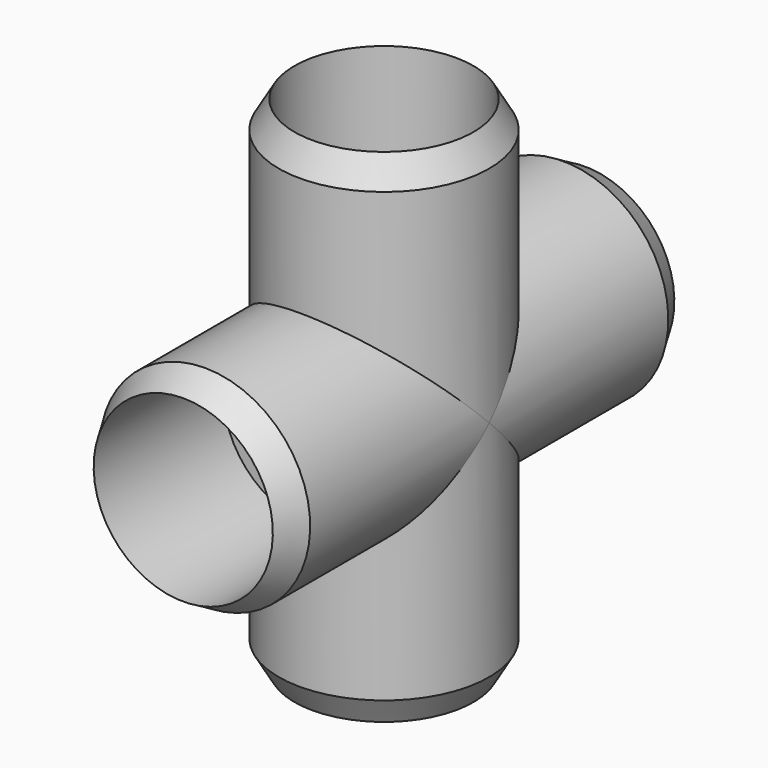
from build123d import *


with BuildPart() as f4:
    # F0 (on Right) → F4 (revolve)
    with BuildSketch(Plane.YZ):
        with BuildLine():
            Line((-52.6758568757, 24.765), (-59.055, 21.082))
            Line((-59.055, 21.082), (-20.955, 21.082))
            Line((-20.955, 21.082), (-20.955, 15.875))
            Line((-20.955, 15.875), (0, 15.875))
            ThreePointArc((0, 15.875), (11.2253201513, 11.2253201513), (15.875, 0))
            Line((15.875, 0), (24.765, 0))
            ThreePointArc((24.765, 0), (17.5114994361, 17.5114994361), (0, 24.765))
            Line((0, 24.765), (-52.6758568757, 24.765))
        make_face()
        with BuildLine():
            Line((-20.955, 21.082), (-59.055, 21.082))
            Line((-59.055, 21.082), (-59.055, 0))
            Line((-59.055, 0), (0, 0))
            Line((0, 0), (10.5189766587, 0))
            Line((10.5189766587, 0), (15.875, 0))
            ThreePointArc((15.875, 0), (11.2253201513, 11.2253201513), (0, 15.875))
            Line((0, 15.875), (-20.955, 15.875))
            Line((-20.955, 15.875), (-20.955, 21.082))
        make_face()
    revolve(axis=Axis((0, -21.59, 0), (0, 1, 0)))

    # F1 (on Right) → F5 (revolve)
    with BuildSketch(Plane.YZ):
        with BuildLine():
            Line((-24.765, -52.6758568757), (-21.082, -59.055))
            Line((-21.082, -59.055), (-21.082, -20.955))
            Line((-21.082, -20.955), (-15.875, -20.955))
            Line((-15.875, -20.955), (-15.875, 0))
            ThreePointArc((-15.875, 0), (-11.2253201513, 11.2253201513), (0, 15.875))
            Line((0, 15.875), (0, 24.765))
            ThreePointArc((0, 24.765), (-17.5114994361, 17.5114994361), (-24.765, 0))
            Line((-24.765, 0), (-24.765, -52.6758568757))
        make_face()
        with BuildLine():
            Line((-21.082, -20.955), (-21.082, -59.055))
            Line((-21.082, -59.055), (0, -59.055))
            Line((0, -59.055), (0, 0))
            Line((0, 0), (0, 15.875))
            ThreePointArc((0, 15.875), (-11.2253201513, 11.2253201513), (-15.875, 0))
            Line((-15.875, 0), (-15.875, -20.955))
            Line((-15.875, -20.955), (-21.082, -20.955))
        make_face()
    revolve(axis=Axis((0, 0, -21.59), (0, 0, 1)))

    # F2 (on Right) → F6 (revolve)
    with BuildSketch(Plane.YZ):
        with BuildLine():
            Line((52.6758568757, -24.765), (59.055, -21.082))
            Line((59.055, -21.082), (20.955, -21.082))
            Line((20.955, -21.082), (20.955, -15.875))
            Line((20.955, -15.875), (0, -15.875))
            ThreePointArc((0, -15.875), (-11.2253201513, -11.2253201513), (-15.875, 0))
            Line((-15.875, 0), (-24.765, 0))
            ThreePointArc((-24.765, 0), (-17.5114994361, -17.5114994361), (0, -24.765))
            Line((0, -24.765), (52.6758568757, -24.765))
        make_face()
        with BuildLine():
            Line((20.955, -21.082), (59.055, -21.082))
            Line((59.055, -21.082), (59.055, 0))
            Line((59.055, 0), (10.5189766587, 0))
            Line((10.5189766587, 0), (0, 0))
            Line((0, 0), (-15.875, 0))
            ThreePointArc((-15.875, 0), (-11.2253201513, -11.2253201513), (0, -15.875))
            Line((0, -15.875), (20.955, -15.875))
            Line((20.955, -15.875), (20.955, -21.082))
        make_face()
    revolve(axis=Axis((0, 21.59, 0), (0, -1, 0)))

    # F3 (on Right) → F7 (revolve)
    with BuildSketch(Plane.YZ):
        with BuildLine():
            Line((24.765, 52.6758568757), (21.082, 59.055))
            Line((21.082, 59.055), (21.082, 20.955))
            Line((21.082, 20.955), (15.875, 20.955))
            Line((15.875, 20.955), (15.875, 0))
            ThreePointArc((15.875, 0), (11.2253201513, -11.2253201513), (0, -15.875))
            Line((0, -15.875), (0, -24.765))
            ThreePointArc((0, -24.765), (17.5114994361, -17.5114994361), (24.765, 0))
            Line((24.765, 0), (24.765, 52.6758568757))
        make_face()
        with BuildLine():
            Line((21.082, 20.955), (21.082, 59.055))
            Line((21.082, 59.055), (0, 59.055))
            Line((0, 59.055), (0, 9.2996467855))
            Line((0, 9.2996467855), (0, 0))
            Line((0, 0), (0, -15.875))
            ThreePointArc((0, -15.875), (11.2253201513, -11.2253201513), (15.875, 0))
            Line((15.875, 0), (15.875, 20.955))
            Line((15.875, 20.955), (21.082, 20.955))
        make_face()
    revolve(axis=Axis((0, 0, 21.59), (0, 0, -1)))

    # F0 (on Right) → F8 (revolve, cut)
    with BuildSketch(Plane.YZ):
        with BuildLine():
            Line((-20.955, 21.082), (-59.055, 21.082))
            Line((-59.055, 21.082), (-59.055, 0))
            Line((-59.055, 0), (0, 0))
            Line((0, 0), (10.5189766587, 0))
            Line((10.5189766587, 0), (15.875, 0))
            ThreePointArc((15.875, 0), (11.2253201513, 11.2253201513), (0, 15.875))
            Line((0, 15.875), (-20.955, 15.875))
            Line((-20.955, 15.875), (-20.955, 21.082))
        make_face()
    revolve(axis=Axis((0, -21.59, 0), (0, 1, 0)), mode=Mode.SUBTRACT)

    # F1 (on Right) → F9 (revolve, cut)
    with BuildSketch(Plane.YZ):
        with BuildLine():
            Line((-21.082, -20.955), (-21.082, -59.055))
            Line((-21.082, -59.055), (0, -59.055))
            Line((0, -59.055), (0, 0))
            Line((0, 0), (0, 15.875))
            ThreePointArc((0, 15.875), (-11.2253201513, 11.2253201513), (-15.875, 0))
            Line((-15.875, 0), (-15.875, -20.955))
            Line((-15.875, -20.955), (-21.082, -20.955))
        make_face()
    revolve(axis=Axis((0, 0, -21.59), (0, 0, 1)), mode=Mode.SUBTRACT)

    # F2 (on Right) → F10 (revolve, cut)
    with BuildSketch(Plane.YZ):
        with BuildLine():
            Line((20.955, -21.082), (59.055, -21.082))
            Line((59.055, -21.082), (59.055, 0))
            Line((59.055, 0), (10.5189766587, 0))
            Line((10.5189766587, 0), (0, 0))
            Line((0, 0), (-15.875, 0))
            ThreePointArc((-15.875, 0), (-11.2253201513, -11.2253201513), (0, -15.875))
            Line((0, -15.875), (20.955, -15.875))
            Line((20.955, -15.875), (20.955, -21.082))
        make_face()
    revolve(axis=Axis((0, 21.59, 0), (0, -1, 0)), mode=Mode.SUBTRACT)

    # F3 (on Right) → F11 (revolve, cut)
    with BuildSketch(Plane.YZ):
        with BuildLine():
            Line((21.082, 20.955), (21.082, 59.055))
            Line((21.082, 59.055), (0, 59.055))
            Line((0, 59.055), (0, 9.2996467855))
            Line((0, 9.2996467855), (0, 0))
            Line((0, 0), (0, -15.875))
            ThreePointArc((0, -15.875), (11.2253201513, -11.2253201513), (15.875, 0))
            Line((15.875, 0), (15.875, 20.955))
            Line((15.875, 20.955), (21.082, 20.955))
        make_face()
    revolve(axis=Axis((0, 0, 21.59), (0, 0, -1)), mode=Mode.SUBTRACT)


solid = f4.part
